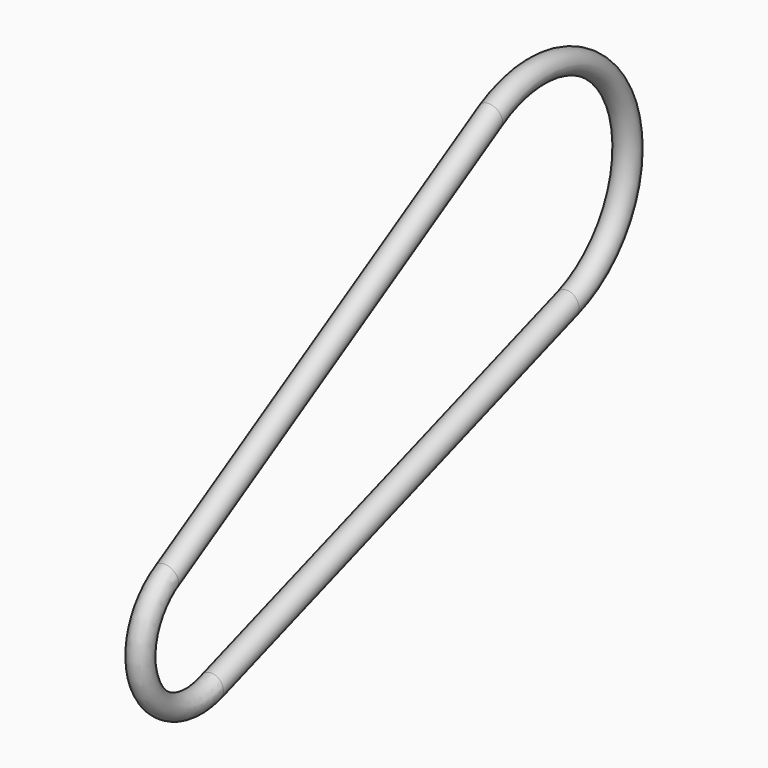
from build123d import *

# Parameters (mm, degrees)
F1_R = 3.175


with BuildPart() as f2:
    # F2: sweep along a path in F0
    with BuildLine(Plane.YZ) as f2_path:
        Line((0, 0), (116.7805785619, 41.0658181431))
        ThreePointArc((116.7805785619, 41.0658181431), (133.8795887002, 81.7740315502), (91.678219458, 94.7578376406))
        Line((91.678219458, 94.7578376406), (-14.7188672784, 31.4825274239))
        ThreePointArc((-14.7188672784, 31.4825274239), (-21.6119603004, 9.0778517983), (0, 0))
    # F1 (on Front) → F2 (sweep)
    with BuildSketch(Plane.XZ):
        Circle(F1_R)
    sweep(path=f2_path.line)


solid = f2.part
